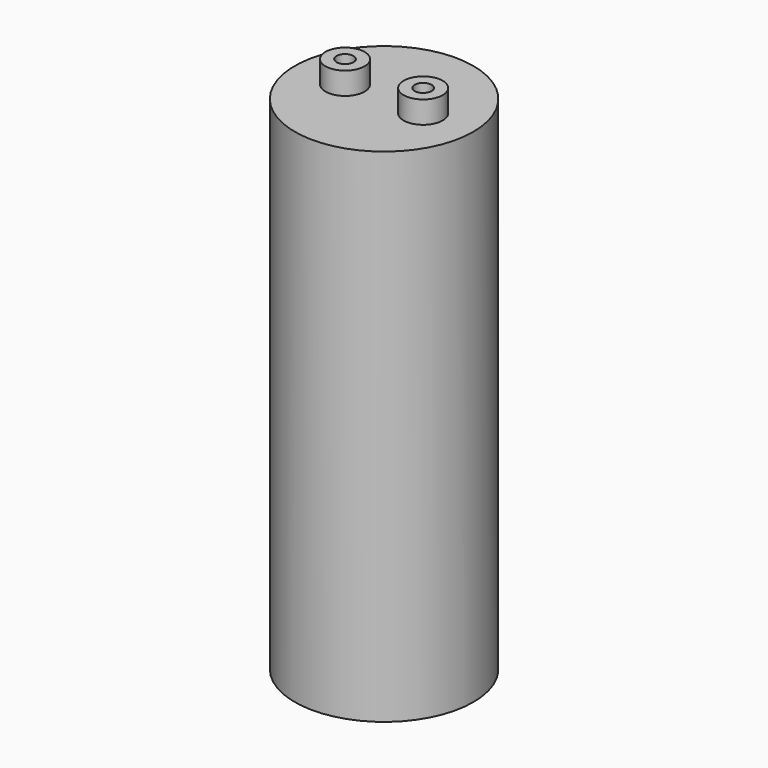
from build123d import *

# Parameters (mm, degrees)
F0_R     = 25.4
F1_DEPTH = 142.875
F2_R     = 5.5626
F3_DEPTH = 6.35
F4_R     = 2.413
F5_DEPTH = 9.525


with BuildPart() as f1:
    # F0 (on Top) → F1 (new body)
    with BuildSketch(Plane.XY):
        Circle(F0_R)
    extrude(amount=F1_DEPTH)

    # F2 (on face) → F3 (join)
    with BuildSketch(Plane.XY.offset(142.875)):
        with Locations((-11.1125, 0)):
            Circle(F2_R)
    extrude(amount=F3_DEPTH)

    # F4 (on face) → F5 (cut)
    with BuildSketch(Plane.XY.offset(149.225)):
        with Locations((-11.1125, 0)):
            Circle(F4_R)
    extrude(amount=-F5_DEPTH, mode=Mode.SUBTRACT)

    # F6: F1 across plane


with BuildPart() as f1_1:
    add(f1.part)
    add(f1.part.mirror(Plane.YZ))


solid = f1_1.part
